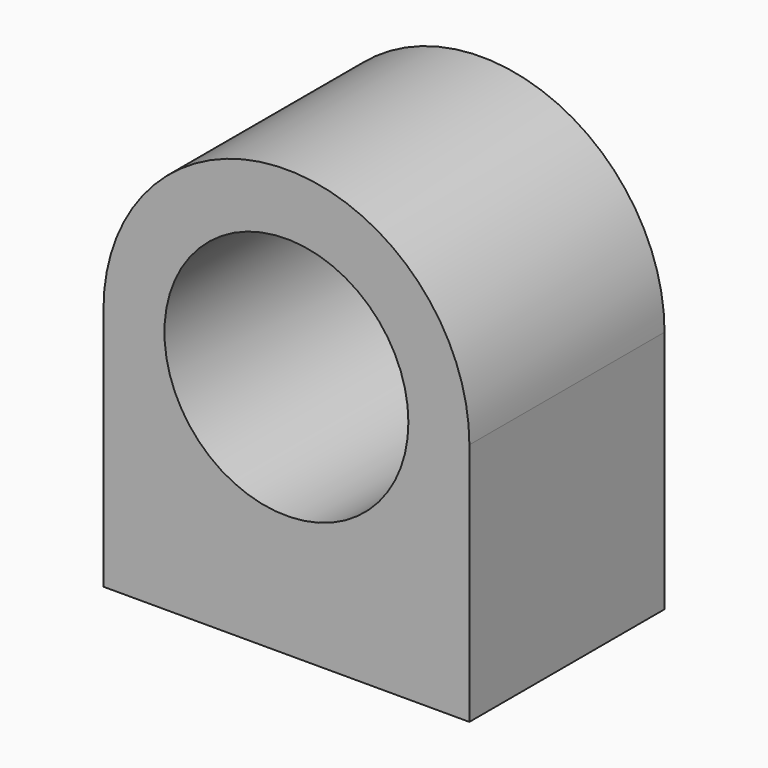
from build123d import *

# Parameters (mm, degrees)
F0_R     = 12.7
F1_DEPTH = 25.4
F2_R     = 3.175
F3_DEPTH = 12.7


with BuildPart() as f1:
    # F0 (on Front) → F1 (new body)
    with BuildSketch(Plane.XZ):
        with BuildLine():
            Line((-12.637049, 12.7), (-12.637049, -12.7))
            Line((-12.637049, -12.7), (25.462951, -12.7))
            Line((25.462951, -12.7), (25.462951, 12.7))
            ThreePointArc((25.462951, 12.7), (6.412951, 31.75), (-12.637049, 12.7))
        make_face()
        with Locations((6.412951, 12.7)):
            Circle(F0_R, mode=Mode.SUBTRACT)
    extrude(amount=F1_DEPTH)

    # F2 (on face) → F3 (cut)
    with BuildSketch(Plane(origin=(0, 0, -12.7), x_dir=(1, 0, 0), z_dir=(0, 0, -1))):
        with Locations((-6.287049, 12.7)):
            Circle(F2_R)
        with Locations((19.112951, 12.7)):
            Circle(F2_R)
    extrude(amount=-F3_DEPTH, mode=Mode.SUBTRACT)


solid = f1.part
